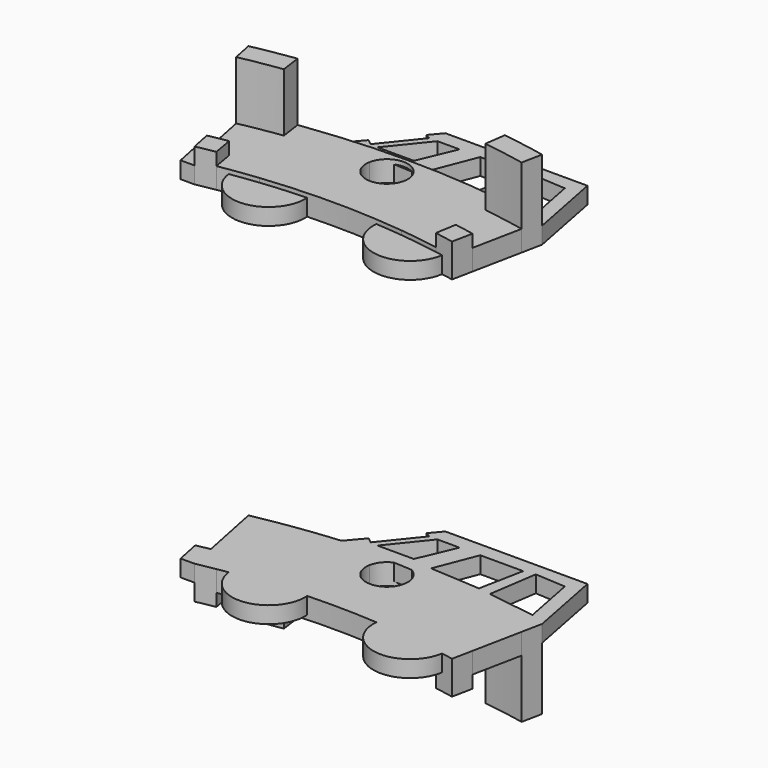
from build123d import *

# Parameters (mm, degrees)
F1_DEPTH  = 1.25
F3_DEPTH  = 4.75
F5_DEPTH  = 2
F7_DEPTH  = 1
F9_DEPTH  = 25
F10_R     = 2.204001226
F10_R_2   = 2.1937648472
F11_DEPTH = 1
F13_DEPTH = 1


with BuildPart() as f1:
    # F0 (on Top) → F1 (new body)
    with BuildSketch(Plane.XY):
        with BuildLine():
            ThreePointArc((5.9976509575, 42.832122093), (6.6456632834, 42.7363739632), (7.2921511628, 42.6308225515))
            Line((7.2921511628, 42.6308225515), (7.5029069767, 43.8629272495))
            ThreePointArc((7.5029069767, 43.8629272495), (6.7010150496, 43.9925720697), (5.8968902794, 44.1075581395))
            ThreePointArc((5.8968902794, 44.1075581395), (5.9741669577, 43.5561736795), (6, 43))
            ThreePointArc((6, 43), (5.9994127106, 42.9160528296), (5.9976509575, 42.832122093))
        make_face()
        with BuildLine():
            Line((-7.5029069767, 43.8629272495), (-7.2921511628, 42.6308225515))
            ThreePointArc((-7.2921511628, 42.6308225515), (-6.6456632834, 42.7363739632), (-5.9976509575, 42.832122093))
            ThreePointArc((-5.9976509575, 42.832122093), (-5.9813637313, 43.4725335051), (-5.8968902794, 44.1075581395))
            ThreePointArc((-5.8968902794, 44.1075581395), (-6.7010150496, 43.9925720697), (-7.5029069767, 43.8629272495))
        make_face()
        with BuildLine():
            ThreePointArc((1.2281761729, 43.2325581395), (3.6184570865, 43.0983673509), (5.9976509575, 42.832122093))
            ThreePointArc((5.9976509575, 42.832122093), (5.9994127106, 42.9160528296), (6, 43))
            ThreePointArc((6, 43), (5.9741669577, 43.5561736795), (5.8968902794, 44.1075581395))
            ThreePointArc((5.8968902794, 44.1075581395), (0, 44.5), (-5.8968902794, 44.1075581395))
            ThreePointArc((-5.8968902794, 44.1075581395), (-5.9813637313, 43.4725335051), (-5.9976509575, 42.832122093))
            ThreePointArc((-5.9976509575, 42.832122093), (-3.6184570865, 43.0983673509), (-1.2281761729, 43.2325581395))
            ThreePointArc((-1.2281761729, 43.2325581395), (0, 44.25), (1.2281761729, 43.2325581395))
        make_face()
        with BuildLine():
            ThreePointArc((5.1487358592, 39.9193313953), (5.9687994799, 39.804973719), (6.7863372093, 39.6737712763))
            Line((6.7863372093, 39.6737712763), (7.2921511628, 42.6308225515))
            ThreePointArc((7.2921511628, 42.6308225515), (6.6456632834, 42.7363739632), (5.9976509575, 42.832122093))
            ThreePointArc((5.9976509575, 42.832122093), (5.7603447969, 41.3211826125), (5.1487358592, 39.9193313953))
        make_face()
        with BuildLine():
            ThreePointArc((-5.1487358592, 39.9193313953), (0, 40.25), (5.1487358592, 39.9193313953))
            ThreePointArc((5.1487358592, 39.9193313953), (5.7603447969, 41.3211826125), (5.9976509575, 42.832122093))
            ThreePointArc((5.9976509575, 42.832122093), (3.6184570865, 43.0983673509), (1.2281761729, 43.2325581395))
            ThreePointArc((1.2281761729, 43.2325581395), (1.244532084, 43.1167899479), (1.25, 43))
            ThreePointArc((1.25, 43), (-0.1167899479, 41.755467916), (-1.2281761729, 43.2325581395))
            ThreePointArc((-1.2281761729, 43.2325581395), (-3.6184570865, 43.0983673509), (-5.9976509575, 42.832122093))
            ThreePointArc((-5.9976509575, 42.832122093), (-5.7603447969, 41.3211826125), (-5.1487358592, 39.9193313953))
        make_face()
        with BuildLine():
            Line((-7.2921511628, 42.6308225515), (-6.7863372093, 39.6737712763))
            ThreePointArc((-6.7863372093, 39.6737712763), (-5.9687994799, 39.804973719), (-5.1487358592, 39.9193313953))
            ThreePointArc((-5.1487358592, 39.9193313953), (-5.7603447969, 41.3211826125), (-5.9976509575, 42.832122093))
            ThreePointArc((-5.9976509575, 42.832122093), (-6.6456632834, 42.7363739632), (-7.2921511628, 42.6308225515))
        make_face()
        with BuildLine():
            Line((-6.7863372093, 39.6737712763), (-6.5755813953, 38.4416665782))
            ThreePointArc((-6.5755813953, 38.4416665782), (-5.4165900946, 38.6220215906), (-4.2526993305, 38.7674418605))
            ThreePointArc((-4.2526993305, 38.7674418605), (-4.7358693269, 39.3160426552), (-5.1487358592, 39.9193313953))
            ThreePointArc((-5.1487358592, 39.9193313953), (-5.9687994799, 39.804973719), (-6.7863372093, 39.6737712763))
        make_face()
        with BuildLine():
            ThreePointArc((-4.2526993305, 38.7674418605), (0, 39), (4.2526993305, 38.7674418605))
            ThreePointArc((4.2526993305, 38.7674418605), (4.7358693269, 39.3160426552), (5.1487358592, 39.9193313953))
            ThreePointArc((5.1487358592, 39.9193313953), (0, 40.25), (-5.1487358592, 39.9193313953))
            ThreePointArc((-5.1487358592, 39.9193313953), (-4.7358693269, 39.3160426552), (-4.2526993305, 38.7674418605))
        make_face()
        with BuildLine():
            ThreePointArc((4.2526993305, 38.7674418605), (5.4165900946, 38.6220215906), (6.5755813953, 38.4416665782))
            Line((6.5755813953, 38.4416665782), (6.7863372093, 39.6737712763))
            ThreePointArc((6.7863372093, 39.6737712763), (5.9687994799, 39.804973719), (5.1487358592, 39.9193313953))
            ThreePointArc((5.1487358592, 39.9193313953), (4.7358693269, 39.3160426552), (4.2526993305, 38.7674418605))
        make_face()
        with BuildLine():
            ThreePointArc((6.7863372093, 39.6737712763), (7.3721720875, 39.5690987857), (7.9563953488, 39.4557761684))
            Line((7.9563953488, 39.4557761684), (8.5494186047, 42.3965793611))
            ThreePointArc((8.5494186046, 42.3965793611), (7.9216507524, 42.5183483846), (7.2921511628, 42.6308225515))
            Line((7.2921511628, 42.6308225515), (6.7863372093, 39.6737712763))
        make_face()
        with BuildLine():
            Line((-8.5494186047, 42.3965793611), (-7.9563953488, 39.4557761684))
            ThreePointArc((-7.9563953488, 39.4557761684), (-7.3721720874, 39.5690987857), (-6.7863372093, 39.6737712763))
            Line((-6.7863372093, 39.6737712763), (-7.2921511628, 42.6308225515))
            ThreePointArc((-7.2921511628, 42.6308225515), (-7.9216507524, 42.5183483846), (-8.5494186046, 42.3965793611))
        make_face()
    extrude(amount=F1_DEPTH)

    # F2 (on Top) → F3 (join)
    with BuildSketch(Plane.XY):
        with BuildLine():
            ThreePointArc((6.0348837209, 42.8268920011), (7.2953245865, 42.6302796047), (8.5494186046, 42.3965793611))
            Line((8.5494186047, 42.3965793611), (8.7965116279, 43.6219140247))
            ThreePointArc((8.7965116279, 43.6219140247), (7.5061721179, 43.8623686106), (6.2093023256, 44.0646634462))
            Line((6.2093023256, 44.0646634462), (6.0348837209, 42.8268920011))
        make_face()
        with BuildLine():
            Line((-8.7965116279, 43.6219140247), (-8.5494186047, 42.3965793611))
            ThreePointArc((-8.5494186046, 42.3965793611), (-7.2953245865, 42.6302796047), (-6.0348837209, 42.8268920011))
            Line((-6.0348837209, 42.8268920011), (-6.2093023256, 44.0646634462))
            ThreePointArc((-6.2093023256, 44.0646634462), (-7.5061721179, 43.8623686106), (-8.7965116279, 43.6219140247))
        make_face()
    extrude(amount=F3_DEPTH)

    # F4 (on Top) → F5 (join)
    with BuildSketch(Plane.XY):
        with BuildLine():
            Line((-7.9563953488, 39.4557761684), (-7.7093023256, 38.2304415048))
            ThreePointArc((-7.7093023256, 38.2304415048), (-7.1432226437, 38.3402447862), (-6.5755813953, 38.4416665782))
            Line((-6.5755813953, 38.4416665782), (-6.7863372093, 39.6737712763))
            ThreePointArc((-6.7863372093, 39.6737712763), (-7.3721720874, 39.5690987857), (-7.9563953488, 39.4557761684))
        make_face()
        with BuildLine():
            ThreePointArc((6.5755813953, 38.4416665782), (7.1432226437, 38.3402447862), (7.7093023256, 38.2304415048))
            Line((7.7093023256, 38.2304415048), (7.9563953488, 39.4557761684))
            ThreePointArc((7.9563953488, 39.4557761684), (7.3721720875, 39.5690987857), (6.7863372093, 39.6737712763))
            Line((6.7863372093, 39.6737712763), (6.5755813953, 38.4416665782))
        make_face()
    extrude(amount=F5_DEPTH)

    # F6 (on face) → F7 (join)
    with BuildSketch(Plane(origin=(0, 0, 0), x_dir=(1, 0, 0), z_dir=(0, 0, -1))):
        Polygon((7.9221539199, -48.1092371047), (8.7965116279, -43.6219140247), (-3.7955408538, -44.3378378998), (-0.5882822443, -48.1092371047), align=None)
    extrude(amount=-F7_DEPTH)

    # F8 (on face) → F9 (cut)
    with BuildSketch(Plane(origin=(0, 0, 0), x_dir=(1, 0, 0), z_dir=(0, 0, -1))):
        Polygon((5.4295773464, -47.3574359501), (7.2560589761, -47.2463108599), (7.8807861766, -44.040125611), (4.9979249015, -44.4712862372), align=None)
        Polygon((2.1912616212, -47.2463108599), (4.7625834122, -47.2463108599), (4.2403205298, -44.5870757103), (1.2272913629, -44.770391618), align=None)
        Polygon((-0.3757679951, -47.2463108599), (0.9534073179, -47.2463108599), (0, -45.0102388859), (-2.1751087625, -45.0102388859), align=None)
        Polygon((-5.3469038683, -47.2463108599), (-3.5560401157, -48.9146411419), (-0.8713398129, -47.2463108599), (-2.6303629056, -45.0603423593), align=None)
    extrude(amount=-F9_DEPTH, mode=Mode.SUBTRACT)

    # F10 (on face) → F11 (join)
    with BuildSketch(Plane(origin=(0, 0, 0), x_dir=(1, 0, 0), z_dir=(0, 0, -1))):
        with Locations((4.8333219749, -38.6993410627)):
            Circle(F10_R)
        with Locations((-3.7429428317, -38.8199739691)):
            Circle(F10_R_2)
    extrude(amount=-F11_DEPTH)

    # F12 (on face) → F13 (join)
    with BuildSketch(Plane(origin=(0, 0, 0), x_dir=(1, 0, 0), z_dir=(0, 0, -1))):
        Polygon((-8.844700314, -39.6997524811), (-8.0383822518, -39.8623493403), (-7.7093023256, -38.2304415048), (-8.5484086134, -38.2304415048), align=None)
    extrude(amount=-F13_DEPTH)


with BuildPart() as f1_1:
    # F14: moved
    add(f1.part.moved(Location((0, 0, 10))))


with BuildPart() as f15_1:
    # F15: instance of F1
    add(f1_1.part.mirror(Plane.XY))


solid = Compound([f1_1.part, f15_1.part])
